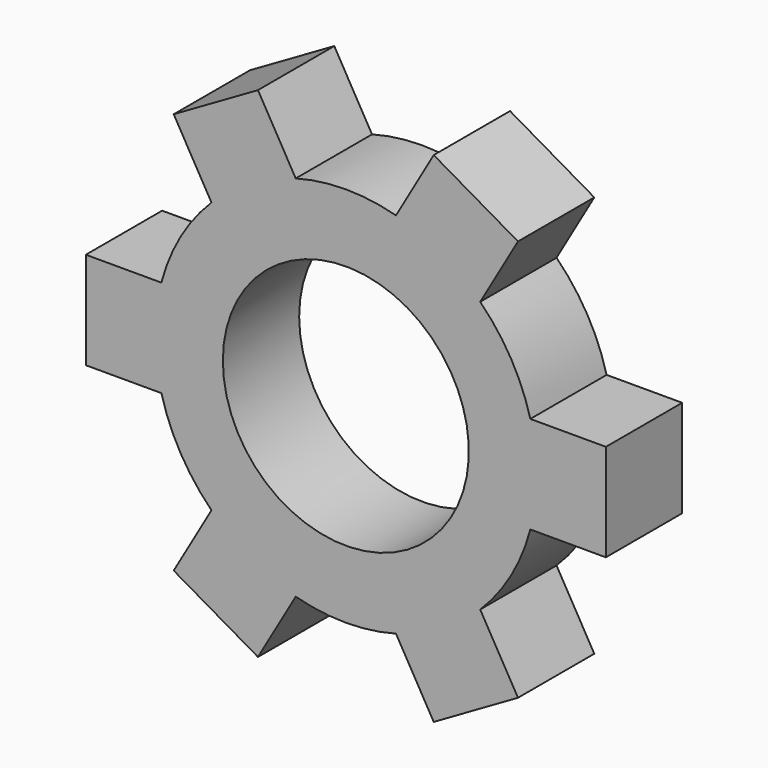
from build123d import *

# Parameters (mm, degrees)
F0_R     = 25.4
F1_DEPTH = 6.35
F3_DEPTH = 12.7
F5_COUNT = 6
F6_R     = 6.47642
F7_DEPTH = 12.7
F8_R     = 16.375735
F9_DEPTH = 12.7


with BuildPart() as f1:
    # F0 (on Front) → F1 (new body, symmetric)
    with BuildSketch(Plane.XZ):
        Circle(F0_R)
    extrude(amount=F1_DEPTH, both=True)

    # F2 (on face) → F3 (join)
    with BuildSketch(Plane.XZ.offset(6.35)):
        Polygon((-0.289307, 0), (0, 0), (-24.534516, 6.574004), (-24.534516, 6.47642), (-24.459638, 6.47642), align=None)
        Polygon((-24.534516, -6.574004), (0, 0), (-0.289307, 0), (-24.459638, -6.47642), (-24.534516, -6.47642), align=None)
        Polygon((-24.534516, 0), (-24.534516, 6.47642), (-34.619638, 6.47642), (-34.619638, -6.47642), (-24.534516, -6.47642), align=None)
    extrude(amount=-F3_DEPTH)

    # F5: F1 ×6 about axis
    f5_axis = Axis((0, -23.88444, 0), (0, -1, 0))


with BuildPart() as f1_1:
    add(f1.part)
    for i in range(1, F5_COUNT):
        add(f1.part.rotate(f5_axis, i * 360 / F5_COUNT))

    # F6 (on face) → F7 (cut)
    with BuildSketch(Plane.XZ.offset(6.35)):
        Circle(F6_R)
    extrude(amount=F7_DEPTH, mode=Mode.SUBTRACT)

    # F8 (on face) → F9 (cut)
    with BuildSketch(Plane(origin=(0, 6.35, 0), x_dir=(-1, 0, 0), z_dir=(0, 1, 0))):
        Circle(F8_R)
    extrude(amount=-F9_DEPTH, mode=Mode.SUBTRACT)


solid = f1_1.part
